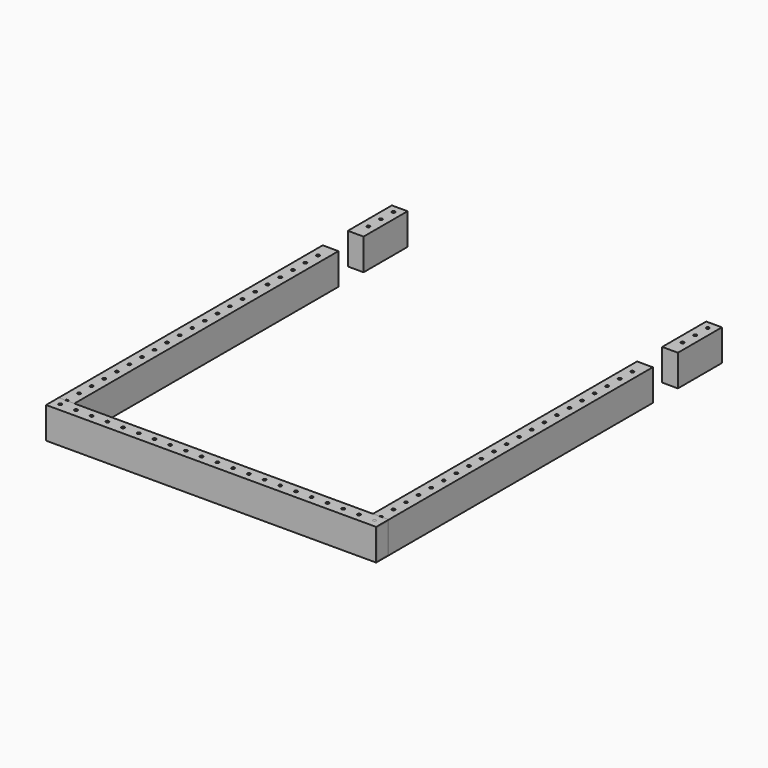
from build123d import *

# Parameters (mm, degrees)
F0_R     = 2.5527
F1_DEPTH = 50.8
F0_W     = 25.4
F0_H     = 88.9
F2_W     = 25.4
F2_H     = 50.8
F2_W_2   = 22.225
F2_H_2   = 47.625
F3_DEPTH = 533.4
F5_D     = 5.1054


with BuildPart() as f1:
    # F0 (on Top) → F1 (new body)
    with BuildSketch(Plane.XY):
        with BuildLine():
            Line((-241.3, 508), (-266.7, 508))
            Line((-266.7, 508), (-266.7, -25.4))
            Line((-266.7, -25.4), (-256.5527, -25.4))
            ThreePointArc((-256.5527, -25.4), (-254, -22.8473), (-251.4473, -25.4))
            Line((-251.4473, -25.4), (-241.3, -25.4))
            Line((-241.3, -25.4), (-241.3, 0))
            Line((-241.3, 0), (-241.3, 508))
        make_face()
        with Locations((-254, 0)):
            Circle(F0_R, mode=Mode.SUBTRACT)
        with Locations((-254, 25.4)):
            Circle(F0_R, mode=Mode.SUBTRACT)
        with Locations((-254, 50.8)):
            Circle(F0_R, mode=Mode.SUBTRACT)
        with Locations((-254, 76.2)):
            Circle(F0_R, mode=Mode.SUBTRACT)
        with Locations((-254, 101.6)):
            Circle(F0_R, mode=Mode.SUBTRACT)
        with Locations((-254, 127)):
            Circle(F0_R, mode=Mode.SUBTRACT)
        with Locations((-254, 152.4)):
            Circle(F0_R, mode=Mode.SUBTRACT)
        with Locations((-254, 177.8)):
            Circle(F0_R, mode=Mode.SUBTRACT)
        with Locations((-254, 203.2)):
            Circle(F0_R, mode=Mode.SUBTRACT)
        with Locations((-254, 228.6)):
            Circle(F0_R, mode=Mode.SUBTRACT)
        with Locations((-254, 254)):
            Circle(F0_R, mode=Mode.SUBTRACT)
        with Locations((-254, 279.4)):
            Circle(F0_R, mode=Mode.SUBTRACT)
        with Locations((-254, 304.8)):
            Circle(F0_R, mode=Mode.SUBTRACT)
        with Locations((-254, 330.2)):
            Circle(F0_R, mode=Mode.SUBTRACT)
        with Locations((-254, 355.6)):
            Circle(F0_R, mode=Mode.SUBTRACT)
        with Locations((-254, 381)):
            Circle(F0_R, mode=Mode.SUBTRACT)
        with Locations((-254, 406.4)):
            Circle(F0_R, mode=Mode.SUBTRACT)
        with Locations((-254, 431.8)):
            Circle(F0_R, mode=Mode.SUBTRACT)
        with Locations((-254, 457.2)):
            Circle(F0_R, mode=Mode.SUBTRACT)
        with Locations((-254, 482.6)):
            Circle(F0_R, mode=Mode.SUBTRACT)
    extrude(amount=F1_DEPTH)


with BuildPart() as f1b:
    # F0 (on Top) → F1, piece 2 (new body)
    with BuildSketch(Plane.XY):
        with Locations((-254, 603.25)):
            Rectangle(F0_W, F0_H)
        with Locations((-254, 584.2)):
            Circle(F0_R, mode=Mode.SUBTRACT)
        with Locations((-254, 609.6)):
            Circle(F0_R, mode=Mode.SUBTRACT)
        with Locations((-254, 635)):
            Circle(F0_R, mode=Mode.SUBTRACT)
    extrude(amount=F1_DEPTH)


with BuildPart() as f1c:
    # F0 (on Top) → F1, piece 3 (new body)
    with BuildSketch(Plane.XY):
        Polygon((241.3, 508), (241.3, 0), (241.3, -25.4), (241.3, -50.8), (266.7, -50.8), (266.7, 508), align=None)
        with Locations((254, -25.4)):
            Circle(F0_R, mode=Mode.SUBTRACT)
        with Locations((254, 0)):
            Circle(F0_R, mode=Mode.SUBTRACT)
        with Locations((254, 25.4)):
            Circle(F0_R, mode=Mode.SUBTRACT)
        with Locations((254, 50.8)):
            Circle(F0_R, mode=Mode.SUBTRACT)
        with Locations((254, 76.2)):
            Circle(F0_R, mode=Mode.SUBTRACT)
        with Locations((254, 101.6)):
            Circle(F0_R, mode=Mode.SUBTRACT)
        with Locations((254, 127)):
            Circle(F0_R, mode=Mode.SUBTRACT)
        with Locations((254, 152.4)):
            Circle(F0_R, mode=Mode.SUBTRACT)
        with Locations((254, 177.8)):
            Circle(F0_R, mode=Mode.SUBTRACT)
        with Locations((254, 203.2)):
            Circle(F0_R, mode=Mode.SUBTRACT)
        with Locations((254, 228.6)):
            Circle(F0_R, mode=Mode.SUBTRACT)
        with Locations((254, 254)):
            Circle(F0_R, mode=Mode.SUBTRACT)
        with Locations((254, 279.4)):
            Circle(F0_R, mode=Mode.SUBTRACT)
        with Locations((254, 304.8)):
            Circle(F0_R, mode=Mode.SUBTRACT)
        with Locations((254, 330.2)):
            Circle(F0_R, mode=Mode.SUBTRACT)
        with Locations((254, 355.6)):
            Circle(F0_R, mode=Mode.SUBTRACT)
        with Locations((254, 381)):
            Circle(F0_R, mode=Mode.SUBTRACT)
        with Locations((254, 406.4)):
            Circle(F0_R, mode=Mode.SUBTRACT)
        with Locations((254, 431.8)):
            Circle(F0_R, mode=Mode.SUBTRACT)
        with Locations((254, 457.2)):
            Circle(F0_R, mode=Mode.SUBTRACT)
        with Locations((254, 482.6)):
            Circle(F0_R, mode=Mode.SUBTRACT)
    extrude(amount=F1_DEPTH)


with BuildPart() as f1d:
    # F0 (on Top) → F1, piece 4 (new body)
    with BuildSketch(Plane.XY):
        with Locations((254, 603.25)):
            Rectangle(F0_W, F0_H)
        with Locations((254, 584.2)):
            Circle(F0_R, mode=Mode.SUBTRACT)
        with Locations((254, 609.6)):
            Circle(F0_R, mode=Mode.SUBTRACT)
        with Locations((254, 635)):
            Circle(F0_R, mode=Mode.SUBTRACT)
    extrude(amount=F1_DEPTH)


with BuildPart() as f3:
    # F2 (on face) → F3 (new body, through all)
    with BuildSketch(Plane(origin=(-266.7, 0, 0), x_dir=(0, -1, 0), z_dir=(-1, 0, 0))):
        with Locations((38.1, 25.4)):
            Rectangle(F2_W, F2_H)
        with Locations((38.1, 25.4)):
            Rectangle(F2_W_2, F2_H_2, mode=Mode.SUBTRACT)
    extrude(amount=-F3_DEPTH)

    # F5 (through all)
    with Locations(Plane.XY.offset(50.8)):
        with Locations((25.4, -38.1), (50.8, -38.1), (76.2, -38.1), (-228.6, -38.1), (127, -38.1), (-203.2, -38.1), (-254, -38.1), (-177.8, -38.1), (-152.4, -38.1), (-127, -38.1), (-101.6, -38.1), (-76.2, -38.1), (-50.8, -38.1), (-25.4, -38.1), (0, -38.1), (254, -38.1), (203.2, -38.1), (152.4, -38.1), (101.6, -38.1), (228.6, -38.1), (177.8, -38.1)):
            Hole(F5_D / 2)


solid = Compound([f1.part, f1b.part, f1c.part, f1d.part, f3.part])
